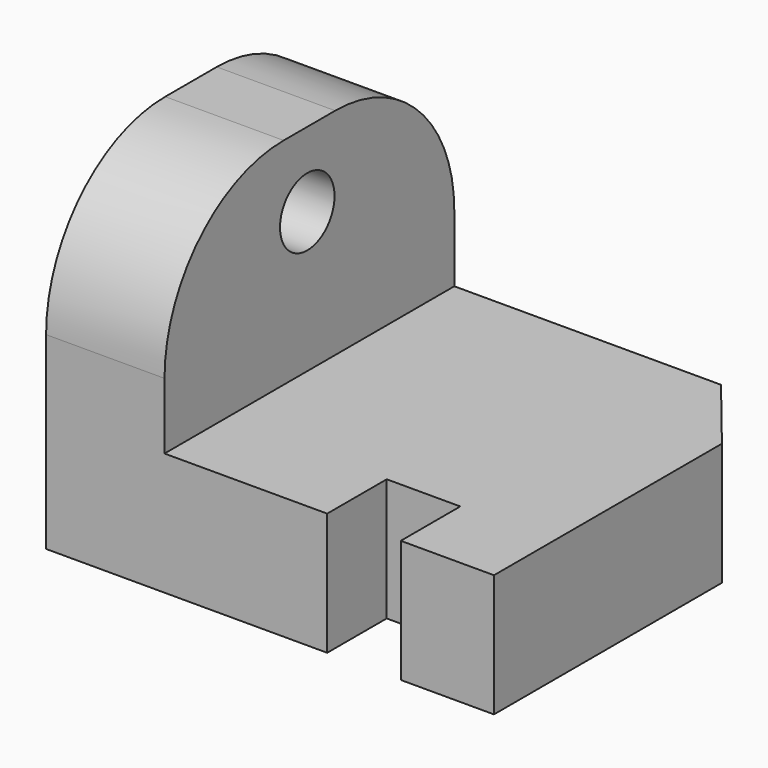
from build123d import *

# Parameters (mm, degrees)
F1_DEPTH = 82.042
F2_R     = 33.726563
F3_W     = 16.65801
F3_H     = 16.849539
F4_DEPTH = 27.750132
F6_DEPTH = 27.750132
F7_R     = 7.714257
F8_DEPTH = 26.825165


with BuildPart() as f1:
    # F0 (on Front) → F1 (new body)
    with BuildSketch(Plane.XZ):
        Polygon((37.769653, -27.749132), (37.769653, 0), (-36.844682, 0), (-36.844682, 48.715144), (-63.668847, 48.715144), (-63.668847, -27.749132), align=None)
    extrude(amount=F1_DEPTH)

    # F2
    f2_edges = [f1.edges().sort_by_distance(p)[0] for p in [
        (-50.256765, 0, 48.715144),
        (-50.256765, -82.042, 48.715144),
    ]]
    fillet(f2_edges, radius=F2_R)

    # F3 (on face) → F4 (cut, through all)
    with BuildSketch(Plane.XY):
        with Locations((8.329005, -73.617231)):
            Rectangle(F3_W, F3_H)
    extrude(amount=-F4_DEPTH, mode=Mode.SUBTRACT)

    # F5 (on face) → F6 (cut, through all)
    with BuildSketch(Plane.XY):
        Polygon((37.769653, 0), (23.558602, 0), (37.769653, -17.508049), align=None)
    extrude(amount=-F6_DEPTH, mode=Mode.SUBTRACT)

    # F7 (on face) → F8 (cut, through all)
    with BuildSketch(Plane.YZ.offset(-36.844682)):
        with Locations((-41.632336, 31.786509)):
            Circle(F7_R)
    extrude(amount=-F8_DEPTH, mode=Mode.SUBTRACT)


solid = f1.part
